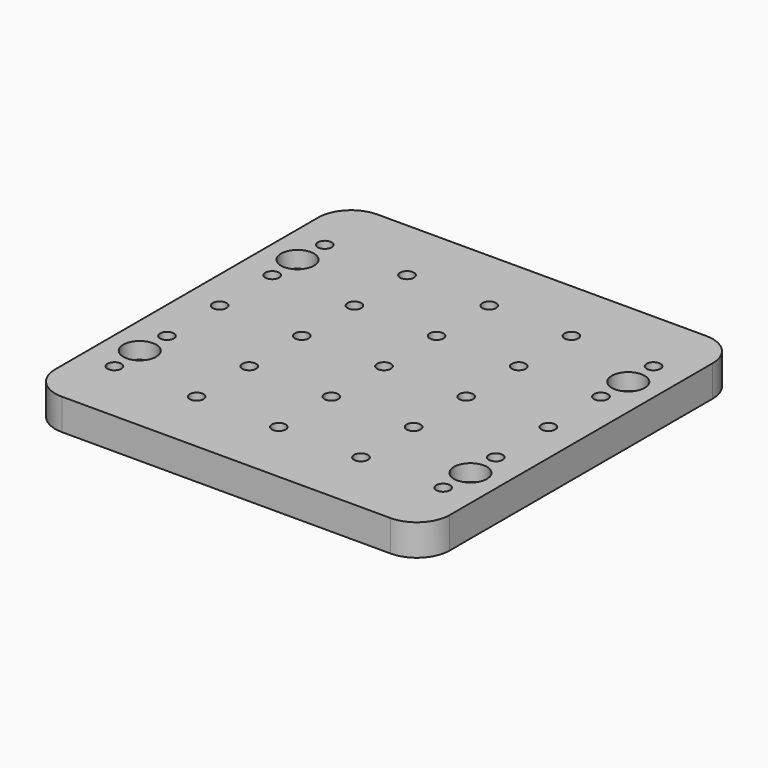
from build123d import *

# Parameters (mm, degrees)
F0_R     = 2.1
F0_R_2   = 2.6
F1_DEPTH = 9.5
F2_R     = 5
F3_DEPTH = 5


with BuildPart() as f1:
    # F0 (on Top) → F1 (new body)
    with BuildSketch(Plane.XY):
        with BuildLine():
            Line((-50, -60), (50, -60))
            ThreePointArc((50, -60), (57.071068, -57.071068), (60, -50))
            Line((60, -50), (60, 50))
            ThreePointArc((60, 50), (57.071068, 57.071068), (50, 60))
            Line((50, 60), (-50, 60))
            ThreePointArc((-50, 60), (-57.071068, 57.071068), (-60, 50))
            Line((-60, 50), (-60, -50))
            ThreePointArc((-60, -50), (-57.071068, -57.071068), (-50, -60))
        make_face()
        with Locations((-50, -40)):
            Circle(F0_R, mode=Mode.SUBTRACT)
        with Locations((-25, -40)):
            Circle(F0_R, mode=Mode.SUBTRACT)
        with Locations((-50.3, -30)):
            Circle(F0_R_2, mode=Mode.SUBTRACT)
        with Locations((-50, -20)):
            Circle(F0_R, mode=Mode.SUBTRACT)
        with Locations((-25, -20)):
            Circle(F0_R, mode=Mode.SUBTRACT)
        with Locations((0, -40)):
            Circle(F0_R, mode=Mode.SUBTRACT)
        with Locations((25, -40)):
            Circle(F0_R, mode=Mode.SUBTRACT)
        with Locations((50, -40)):
            Circle(F0_R, mode=Mode.SUBTRACT)
        with Locations((0, -20)):
            Circle(F0_R, mode=Mode.SUBTRACT)
        with Locations((25, -20)):
            Circle(F0_R, mode=Mode.SUBTRACT)
        with Locations((50.3, -30)):
            Circle(F0_R_2, mode=Mode.SUBTRACT)
        with Locations((50, -20)):
            Circle(F0_R, mode=Mode.SUBTRACT)
        with Locations((-50, 0)):
            Circle(F0_R, mode=Mode.SUBTRACT)
        with Locations((-50, 20)):
            Circle(F0_R, mode=Mode.SUBTRACT)
        with Locations((-25, 0)):
            Circle(F0_R, mode=Mode.SUBTRACT)
        with Locations((-25, 20)):
            Circle(F0_R, mode=Mode.SUBTRACT)
        with Locations((-50.3, 30)):
            Circle(F0_R_2, mode=Mode.SUBTRACT)
        with Locations((-50, 40)):
            Circle(F0_R, mode=Mode.SUBTRACT)
        with Locations((-25, 40)):
            Circle(F0_R, mode=Mode.SUBTRACT)
        Circle(F0_R, mode=Mode.SUBTRACT)
        with Locations((25, 0)):
            Circle(F0_R, mode=Mode.SUBTRACT)
        with Locations((0, 20)):
            Circle(F0_R, mode=Mode.SUBTRACT)
        with Locations((25, 20)):
            Circle(F0_R, mode=Mode.SUBTRACT)
        with Locations((50, 0)):
            Circle(F0_R, mode=Mode.SUBTRACT)
        with Locations((50, 20)):
            Circle(F0_R, mode=Mode.SUBTRACT)
        with Locations((0, 40)):
            Circle(F0_R, mode=Mode.SUBTRACT)
        with Locations((25, 40)):
            Circle(F0_R, mode=Mode.SUBTRACT)
        with Locations((50.3, 30)):
            Circle(F0_R_2, mode=Mode.SUBTRACT)
        with Locations((50, 40)):
            Circle(F0_R, mode=Mode.SUBTRACT)
    extrude(amount=F1_DEPTH)

    # F2 (on face) → F3 (cut)
    with BuildSketch(Plane.XY.offset(9.5)):
        with Locations((-50.3, 30)):
            Circle(F2_R)
        with Locations((-50.3, -30)):
            Circle(F2_R)
        with Locations((50.3, 30)):
            Circle(F2_R)
        with Locations((50.3, -30)):
            Circle(F2_R)
    extrude(amount=-F3_DEPTH, mode=Mode.SUBTRACT)


solid = f1.part
